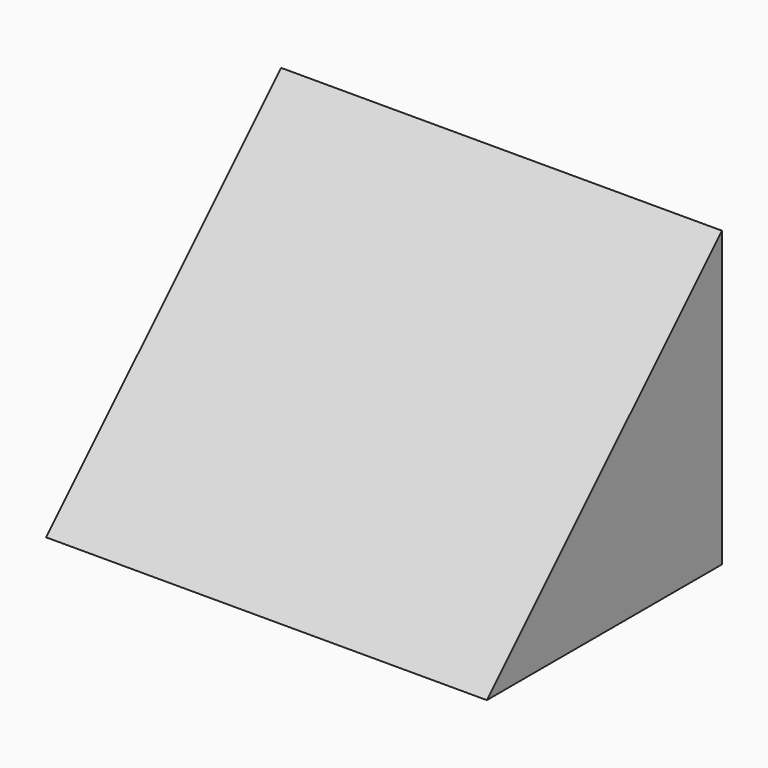
from build123d import *

# Parameters (mm, degrees)
F1_DEPTH = 38.1


with BuildPart() as f1:
    # F0 (on Right) → F1 (new body)
    with BuildSketch(Plane.YZ):
        Polygon((-25.4, 0), (0, 0), (0, 25.4), align=None)
    extrude(amount=-F1_DEPTH)


solid = f1.part
